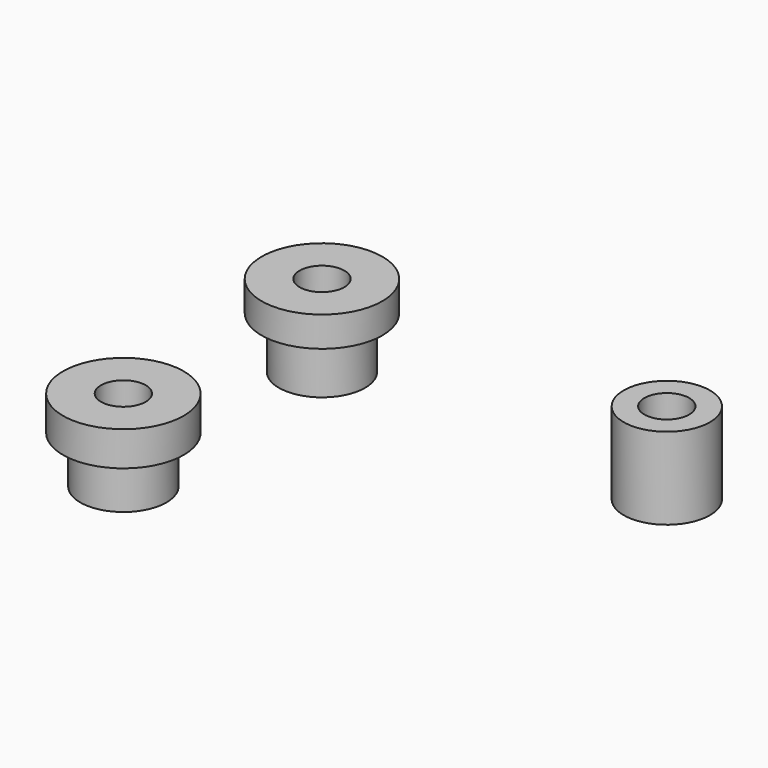
from build123d import *

# Parameters (mm, degrees)
F0_R     = 5
F0_R_2   = 2.6
F1_DEPTH = 9.5
F4_R     = 7
F4_R_2   = 5
F5_DEPTH = 3.5
F6_R     = 7
F6_R_2   = 5
F7_DEPTH = 4


with BuildPart() as f1:
    # F0 (on Top) → F1 (new body)
    with BuildSketch(Plane.XY):
        Circle(F0_R)
        Circle(F0_R_2, mode=Mode.SUBTRACT)
    extrude(amount=F1_DEPTH)


with BuildPart() as f2_1:
    # F2: copy of F1
    add(f1.part.moved(Location((-40, 0, 0))))

    # F4 (on face) → F5 (join)
    with BuildSketch(Plane.XY.offset(9.5)):
        with Locations((-40, 0)):
            Circle(F4_R)
        with Locations((-40, 0)):
            Circle(F4_R_2, mode=Mode.SUBTRACT)
    extrude(amount=-F5_DEPTH)


with BuildPart() as f3_1:
    # F3: copy of F2_1
    add(f2_1.part.moved(Location((0, -28.8, 0))))

    # F6 (on face) → F7 (join)
    with BuildSketch(Plane.XY.offset(9.5)):
        with Locations((-40, -28.8)):
            Circle(F6_R)
        with Locations((-40, -28.8)):
            Circle(F6_R_2, mode=Mode.SUBTRACT)
    extrude(amount=-F7_DEPTH)


solid = Compound([f1.part, f2_1.part, f3_1.part])
